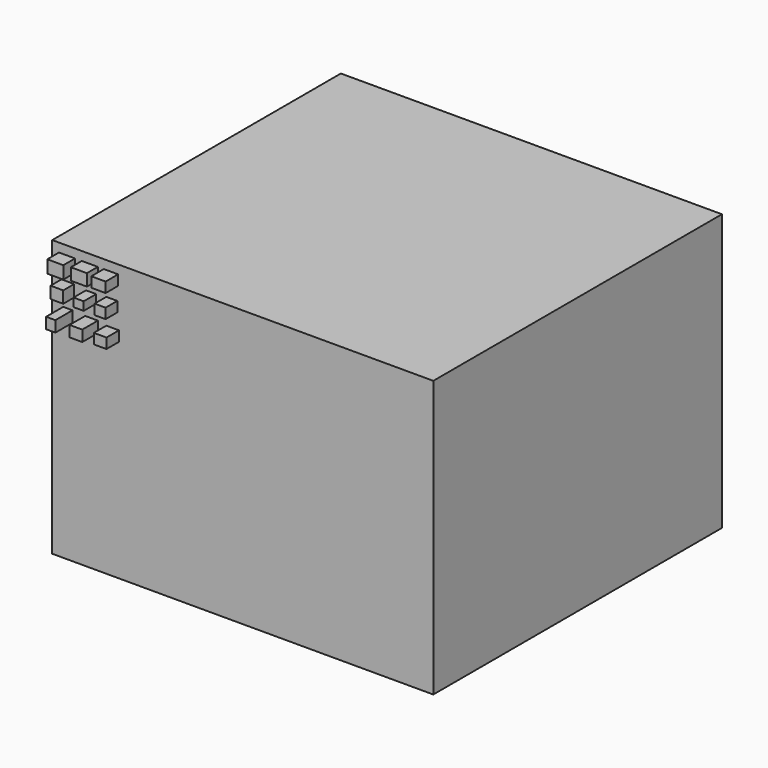
from build123d import *

# Parameters (mm, degrees)
F0_W      = 100.234754
F0_H      = 94.90075
F1_DEPTH  = 72.644
F2_W      = 4.22275
F2_H      = 3.333748
F3_DEPTH  = 51.308
F4_W      = 4.222751
F4_H      = 3.111497
F5_DEPTH  = 51.054
F6_W      = 3.778249
F6_H      = 2.666995
F7_DEPTH  = 51.562
F8_W      = 3.333751
F8_H      = 3.111497
F9_DEPTH  = 51.054
F10_W     = 2.666998
F10_H     = 2.222497
F11_DEPTH = 51.562
F12_W     = 2.889253
F12_H     = 2.666999
F13_DEPTH = 51.308
F14_W     = 2.444748
F14_H     = 2.889249
F15_DEPTH = 53.086
F16_W     = 3.333751
F16_H     = 2.889249
F17_DEPTH = 52.578
F18_W     = 3.333751
F18_H     = 2.666998
F19_DEPTH = 51.562


with BuildPart() as f1:
    # F0 (on Top) → F1 (new body)
    with BuildSketch(Plane.XY):
        Rectangle(F0_W, F0_H)
    extrude(amount=F1_DEPTH)

    # F2 (on Front) → F3 (join)
    with BuildSketch(Plane.XZ):
        with Locations((-46.227999, 68.67525)):
            Rectangle(F2_W, F2_H)
    extrude(amount=F3_DEPTH)

    # F4 (on Front) → F5 (join)
    with BuildSketch(Plane.XZ):
        with Locations((-40.227249, 68.786375)):
            Rectangle(F4_W, F4_H)
    extrude(amount=F5_DEPTH)

    # F6 (on Front) → F7 (join)
    with BuildSketch(Plane.XZ):
        with Locations((-34.671002, 69.008626)):
            Rectangle(F6_W, F6_H)
    extrude(amount=F7_DEPTH)

    # F8 (on Front) → F9 (join)
    with BuildSketch(Plane.XZ):
        with Locations((-46.00575, 62.785625)):
            Rectangle(F8_W, F8_H)
    extrude(amount=F9_DEPTH)

    # F10 (on Front) → F11 (join)
    with BuildSketch(Plane.XZ):
        with Locations((-39.893875, 62.785623)):
            Rectangle(F10_W, F10_H)
    extrude(amount=F11_DEPTH)

    # F12 (on Front) → F13 (join)
    with BuildSketch(Plane.XZ):
        with Locations((-34.448751, 62.785623)):
            Rectangle(F12_W, F12_H)
    extrude(amount=F13_DEPTH)

    # F14 (on Front) → F15 (join)
    with BuildSketch(Plane.XZ):
        with Locations((-46.00575, 56.673749)):
            Rectangle(F14_W, F14_H)
    extrude(amount=F15_DEPTH)

    # F16 (on Front) → F17 (join)
    with BuildSketch(Plane.XZ):
        with Locations((-39.782749, 56.451501)):
            Rectangle(F16_W, F16_H)
    extrude(amount=F17_DEPTH)

    # F18 (on Front) → F19 (join)
    with BuildSketch(Plane.XZ):
        with Locations((-34.226501, 56.118125)):
            Rectangle(F18_W, F18_H)
    extrude(amount=F19_DEPTH)


solid = f1.part
